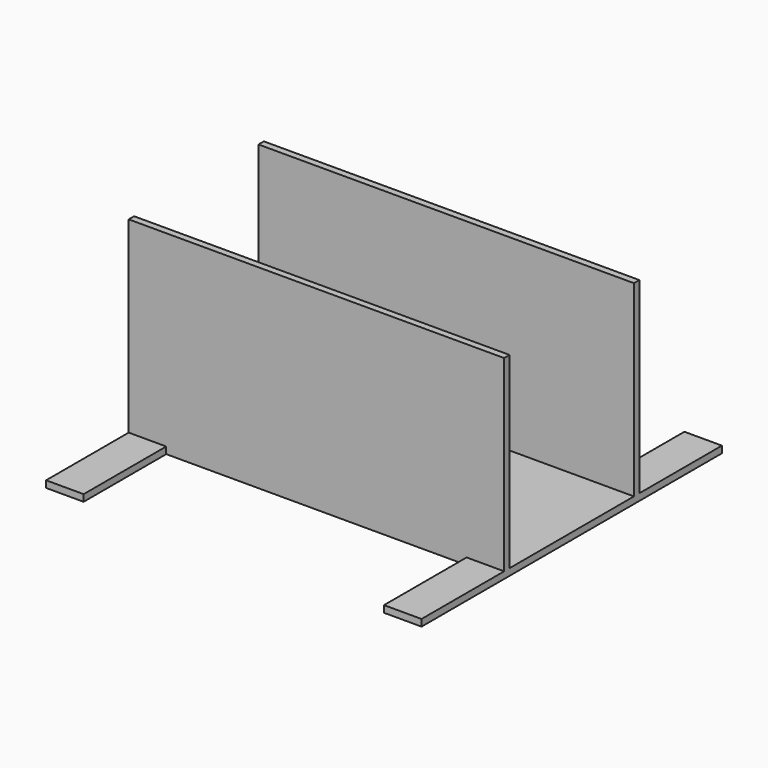
from build123d import *

# Parameters (mm, degrees)
F0_W          = 100
F0_H          = 45
F1_DEPTH      = 50
F1_DEPTH_BACK = 1.8
F2_T          = -1.8
F4_DEPTH      = 1.8


with BuildPart() as f1:
    # F0 (on Top) → F1 (new body, two sides)
    with BuildSketch(Plane.XY) as f1_sk:
        Rectangle(F0_W, F0_H)
    extrude(amount=F1_DEPTH)
    extrude(f1_sk.sketch, amount=-F1_DEPTH_BACK)

    # F2
    f2_openings = [f1.faces().sort_by_distance(p)[0] for p in [
        (0, 0, 50),
        (-50, 0, 24.1),
        (50, 0, 24.1),
    ]]
    offset(amount=F2_T, openings=f2_openings)

    # F3 (on Top) → F4 (join)
    with BuildSketch(Plane.XY):
        Polygon((-40, -50), (-40, 0), (-40, 50), (-50, 50), (-50, -50), align=None)
        Polygon((40, 50), (40, 0), (40, -50), (50, -50), (50, 50), align=None)
    extrude(amount=-F4_DEPTH)


solid = f1.part
